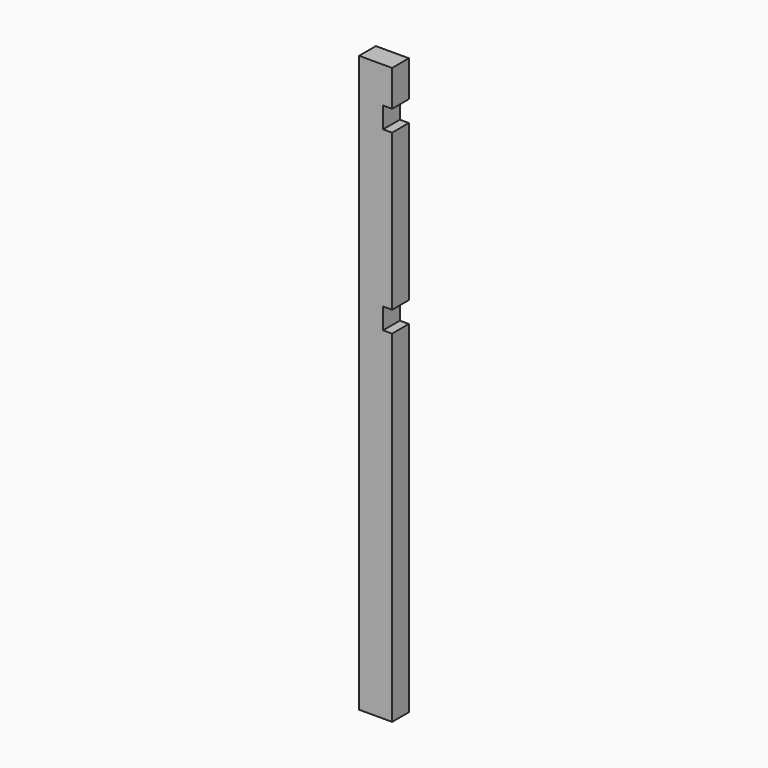
from build123d import *

# Parameters (mm, degrees)
F0_W     = 139.7
F0_H     = 88.9
F1_DEPTH = 1219.2
F2_W     = 88.9
F2_H     = 88.9
F3_DEPTH = 38.1
F4_R     = 4.7625
F5_DEPTH = 25.4


with BuildPart() as f1:
    # F0 (on Top) → F1 (new body, symmetric)
    with BuildSketch(Plane.XY):
        Rectangle(F0_W, F0_H)
    extrude(amount=F1_DEPTH, both=True)

    # F2 (on face) → F3 (cut)
    with BuildSketch(Plane.YZ.offset(69.85)):
        with Locations((0, 1022.35)):
            Rectangle(F2_W, F2_H)
        with Locations((0, 273.05)):
            Rectangle(F2_W, F2_H)
    extrude(amount=-F3_DEPTH, mode=Mode.SUBTRACT)

    # F4 (on face) → F5 (cut)
    with BuildSketch(Plane(origin=(-69.85, 0, 0), x_dir=(0, -1, 0), z_dir=(-1, 0, 0))):
        with Locations((0, -558.8)):
            Circle(F4_R)
        with Locations((0, 1143)):
            Circle(F4_R)
        with Locations((0, 431.8)):
            Circle(F4_R)
    extrude(amount=-F5_DEPTH, mode=Mode.SUBTRACT)


solid = f1.part
